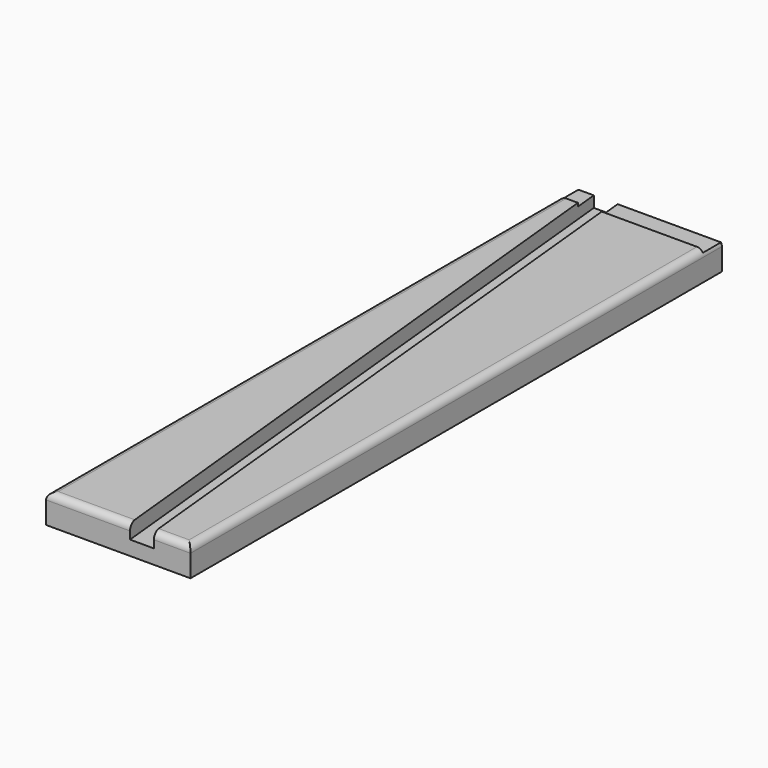
from build123d import *

# Parameters (mm, degrees)
F1_DEPTH = 12.7
F2_DEPTH = 6.35
F3_START = 1.5
F3_DEPTH = 11.2
F4_START = 1.5
F4_DEPTH = 11.2
F5_R     = 3
F6_ANGLE = 180


with BuildPart() as f1:
    # F0 (on Top) → F1 (new body)
    with BuildSketch(Plane.XY):
        Polygon((-29.410376087, 163.8882011175), (-74.2387966365, 163.8882011175), (-74.2387966365, -118.2211643489), (-58.1500269473, -118.2211643489), align=None)
        Polygon((-17.8977344185, 173.8788356511), (-28.3925887197, 173.8788356511), (-29.410376087, 163.8882011175), (-58.1500269473, -118.2211643489), (-47.655172646, -118.2211643489), (-18.9155217858, 163.8882011175), align=None)
        Polygon((-10.7387966365, 163.8882011175), (-18.9155217858, 163.8882011175), (-47.655172646, -118.2211643489), (-42.4887966365, -118.2211643489), (-10.7387966365, -118.2211643489), align=None)
    extrude(amount=F1_DEPTH)

    # F0 (on Top) → F2 (cut)
    with BuildSketch(Plane.XY):
        Polygon((-17.8977344185, 173.8788356511), (-28.3925887197, 173.8788356511), (-29.410376087, 163.8882011175), (-58.1500269473, -118.2211643489), (-47.655172646, -118.2211643489), (-18.9155217858, 163.8882011175), align=None)
    extrude(amount=F2_DEPTH, mode=Mode.SUBTRACT)

    # F0 (on Top) → F3 (join)
    with BuildSketch(Plane.XY.offset(F3_START)):
        Polygon((-28.3925887197, 173.8788356511), (-74.2387966365, 173.8788356511), (-74.2387966365, 163.8882011175), (-29.410376087, 163.8882011175), align=None)
    extrude(amount=F3_DEPTH)

    # F0 (on Top) → F4 (join)
    with BuildSketch(Plane.XY.offset(F4_START)):
        Polygon((-10.7387966365, 173.8788356511), (-17.8977344185, 173.8788356511), (-18.9155217858, 163.8882011175), (-10.7387966365, 163.8882011175), align=None)
    extrude(amount=F4_DEPTH)

    # F5
    f5_edges = [f1.edges().sort_by_distance(p)[0] for p in [
        (-74.238797, 22.833518, 0),
        (-10.738797, 22.833518, 0),
        (-29.196985, -118.221164, 0),
        (-66.194412, -118.221164, 0),
    ]]
    fillet(f5_edges, radius=F5_R)


with BuildPart() as f1_1:
    # F6: moved
    add(f1.part.rotate(Axis((-13.7387966365, 24.3335183843, 0), (0, -1, 0)), F6_ANGLE))


solid = f1_1.part
